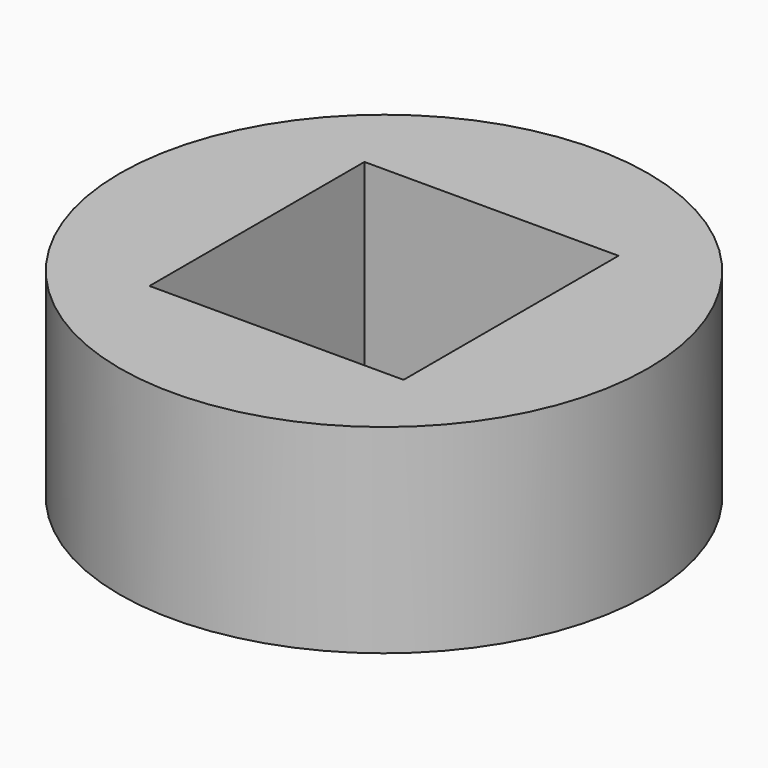
from build123d import *

# Parameters (mm, degrees)
F0_W     = 30.617888
F0_H     = 32.374126
F1_DEPTH = 25
F2_R     = 31.82383
F3_DEPTH = 24


with BuildPart() as f1:
    # F0 (on Top) → F1 (new body)
    with BuildSketch(Plane.XY):
        Rectangle(F0_W, F0_H)
    extrude(amount=F1_DEPTH)


with BuildPart() as f3:
    # F2 (on Top) → F3 (new body)
    with BuildSketch(Plane.XY):
        Circle(F2_R)
    extrude(amount=F3_DEPTH)

    # F4: cut F1
    add(f1.part, mode=Mode.SUBTRACT)


solid = f3.part
